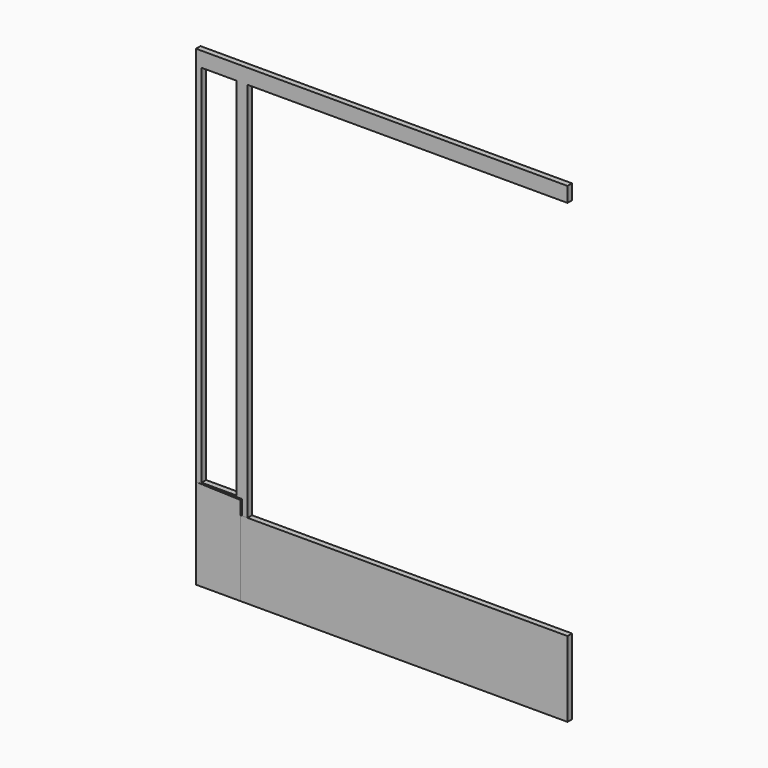
from build123d import *

# Parameters (mm, degrees)
F0_W     = 157.1625
F0_H     = 5.708829
F1_DEPTH = 25.4
F2_DEPTH = 25.4


with BuildPart() as f1:
    # F0 (on Front) → F1 (new body)
    with BuildSketch(Plane.XZ):
        Polygon((2563.389725, 2122.264796), (2587.017775, 2122.264796), (4025.477225, 2122.264796), (4025.477225, 2189.586954), (2355.427225, 2189.586954), (2355.427225, 2122.264796), (2380.827225, 2122.264796), (2537.989725, 2122.264796), align=None)
        Polygon((2355.427225, 475.086954), (2355.615806, 475.080967), (2380.827225, 475.080967), (2380.827225, 480.789796), (2380.827225, 2122.264796), (2355.427225, 2122.264796), align=None)
        Polygon((2537.989725, 475.080967), (2563.389725, 475.080967), (2563.389725, 2122.264796), (2537.989725, 2122.264796), (2537.989725, 480.789796), align=None)
        Polygon((2563.389725, 475.080967), (2563.389725, 408.411954), (2587.017775, 408.411954), (2587.017775, 2122.264796), (2563.389725, 2122.264796), align=None)
        with Locations((2459.408475, 477.935381)):
            Rectangle(F0_W, F0_H)
        Polygon((2355.427225, 68.686954), (2555.452225, 68.686954), (2555.452225, 408.411954), (2555.452225, 468.736954), (2355.615806, 475.080967), (2355.427225, 475.080967), align=None)
    extrude(amount=F1_DEPTH)


with BuildPart() as f2:
    # F0 (on Front) → F2 (new body)
    with BuildSketch(Plane.XZ):
        Polygon((2555.452225, 408.411954), (2555.452225, 68.686954), (4025.477225, 68.686954), (4025.477225, 408.411954), (2587.017775, 408.411954), (2563.389725, 408.411954), align=None)
    extrude(amount=F2_DEPTH)


solid = Compound([f1.part, f2.part])
